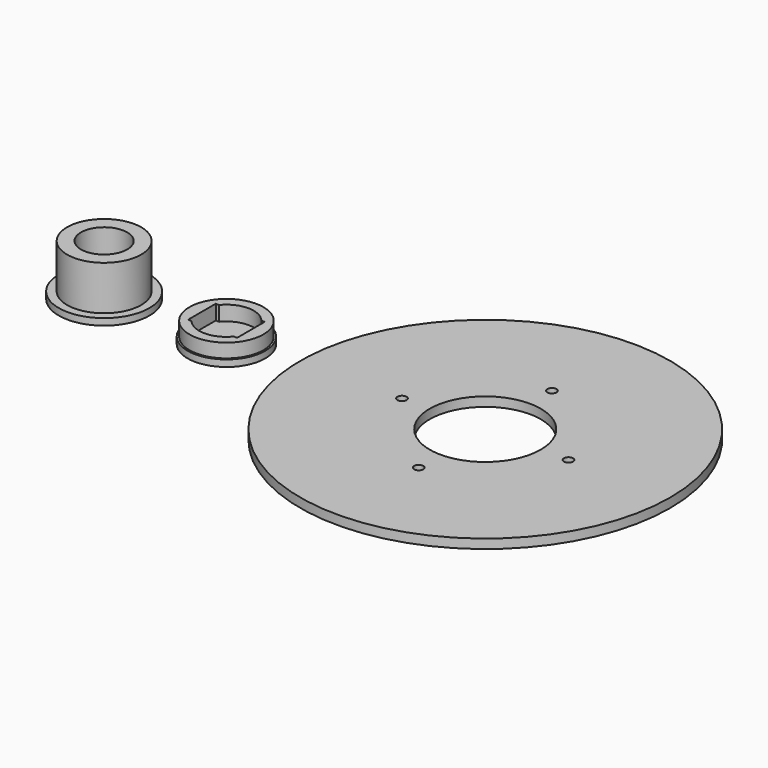
from build123d import *

# Parameters (mm, degrees)
F0_R      = 100
F0_R_2    = 2.5
F0_R_3    = 30
F1_DEPTH  = 5
F2_R      = 24.5
F3_DEPTH  = 3.6
F4_R      = 20.05
F5_DEPTH  = 24
F6_R      = 12.5
F7_DEPTH  = 18
F9_D      = 5.1
F10_R     = 21
F11_DEPTH = 3.6
F12_R     = 20
F13_DEPTH = 7.5
F15_DEPTH = 8


with BuildPart() as f1:
    # F0 (on Top) → F1 (new body)
    with BuildSketch(Plane.XY):
        Circle(F0_R)
        with Locations((0, -45)):
            Circle(F0_R_2, mode=Mode.SUBTRACT)
        with Locations((-45, 0)):
            Circle(F0_R_2, mode=Mode.SUBTRACT)
        Circle(F0_R_3, mode=Mode.SUBTRACT)
        with Locations((45, 0)):
            Circle(F0_R_2, mode=Mode.SUBTRACT)
        with Locations((0, 45)):
            Circle(F0_R_2, mode=Mode.SUBTRACT)
    extrude(amount=F1_DEPTH)


with BuildPart() as f3:
    # F2 (on Top) → F3 (new body)
    with BuildSketch(Plane.XY):
        with Locations((-206.021562, 0)):
            Circle(F2_R)
    extrude(amount=F3_DEPTH)

    # F4 (on face) → F5 (join)
    with BuildSketch(Plane.XY.offset(3.6)):
        with Locations((-206.021562, 0)):
            Circle(F4_R)
    extrude(amount=F5_DEPTH)

    # F6 (on face) → F7 (cut)
    with BuildSketch(Plane.XY.offset(27.6)):
        with Locations((-206.021562, 0)):
            Circle(F6_R)
    extrude(amount=-F7_DEPTH, mode=Mode.SUBTRACT)

    # F9 (through all)
    with Locations(Plane.XY.offset(9.6)):
        with Locations((-206.021562, 0)):
            Hole(F9_D / 2)


with BuildPart() as f11:
    # F10 (on Top) → F11 (new body)
    with BuildSketch(Plane.XY):
        with Locations((-139.904723, 0)):
            Circle(F10_R)
    extrude(amount=F11_DEPTH)

    # F12 (on face) → F13 (join)
    with BuildSketch(Plane.XY.offset(3.6)):
        with Locations((-139.904723, 0)):
            Circle(F12_R)
    extrude(amount=F13_DEPTH)

    # F14 (on face) → F15 (cut)
    with BuildSketch(Plane.XY.offset(11.1)):
        with BuildLine():
            Line((-126.654723, 9.35), (-128.496831, 9.35))
            ThreePointArc((-128.496831, 9.35), (-139.904723, 14.75), (-151.312615, 9.35))
            Line((-151.312615, 9.35), (-153.154723, 9.35))
            Line((-153.154723, 9.35), (-153.154723, 6.480741))
            Line((-153.154723, 6.480741), (-153.154723, -6.480741))
            Line((-153.154723, -6.480741), (-153.154723, -9.35))
            Line((-153.154723, -9.35), (-151.312615, -9.35))
            ThreePointArc((-151.312615, -9.35), (-139.904723, -14.75), (-128.496831, -9.35))
            Line((-128.496831, -9.35), (-126.654723, -9.35))
            Line((-126.654723, -9.35), (-126.654723, -6.480741))
            Line((-126.654723, -6.480741), (-126.654723, 6.480741))
            Line((-126.654723, 6.480741), (-126.654723, 9.35))
        make_face()
    extrude(amount=-F15_DEPTH, mode=Mode.SUBTRACT)


with BuildPart() as f16_1:
    # F16: copy of F11
    add(f11.part)


solid = Compound([f1.part, f3.part, f11.part])
